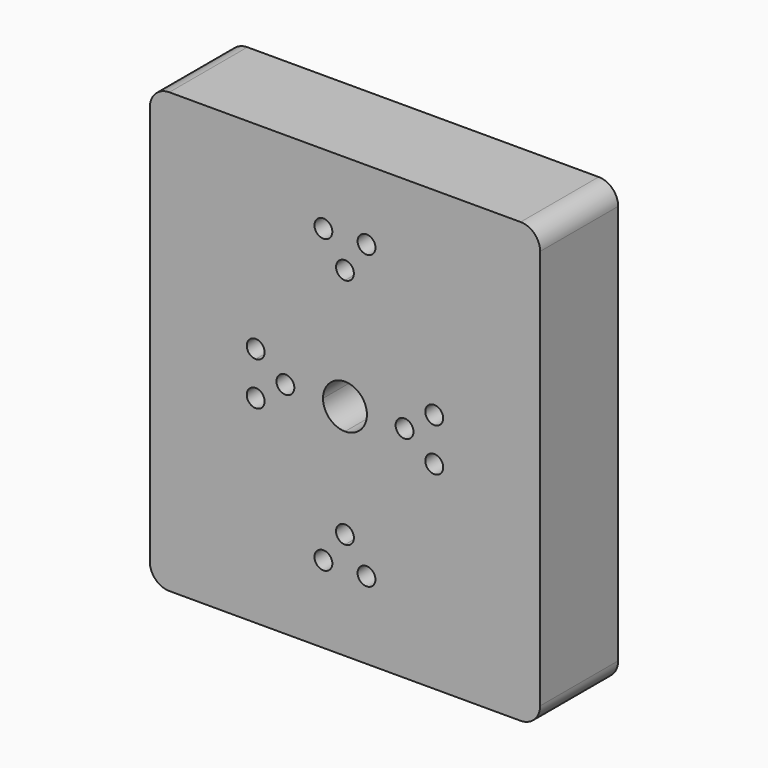
from build123d import *

# Parameters (mm, degrees)
F0_W     = 101.6
F0_H     = 114.3
F1_DEPTH = 25.4
F2_R     = 2.3241
F3_DEPTH = 25.401
F4_R     = 5.08


with BuildPart() as f1:
    # F0 (on Front) → F1 (new body)
    with BuildSketch(Plane.XZ):
        Rectangle(F0_W, F0_H)
    extrude(amount=F1_DEPTH)

    # F2 (on face) → F3 (cut, through all)
    with BuildSketch(Plane.XZ.offset(25.4)):
        with BuildLine():
            ThreePointArc((0, -5.715), (4.041115, -4.041115), (5.715, 0))
            ThreePointArc((5.715, 0), (4.041115, 4.041115), (0, 5.715))
            ThreePointArc((0, 5.715), (-4.041115, 4.041115), (-5.715, 0))
            ThreePointArc((-5.715, 0), (-4.041115, -4.041115), (0, -5.715))
        make_face()
        with BuildLine():
            ThreePointArc((2.3241, -29.3243), (1.643387, -27.680913), (0, -27.0002))
            Line((0, -27.0002), (0, -31.6484))
            ThreePointArc((0, -31.6484), (1.643387, -30.967687), (2.3241, -29.3243))
        make_face()
        with BuildLine():
            Line((0, -31.6484), (0, -27.0002))
            ThreePointArc((0, -27.0002), (-2.3241, -29.3243), (0, -31.6484))
        make_face()
        with BuildLine():
            ThreePointArc((-20.9169, -5.6261), (-21.597613, -3.982713), (-23.241, -3.302))
            ThreePointArc((-23.241, -3.302), (-24.884387, -7.269487), (-20.9169, -5.6261))
        make_face()
        with BuildLine():
            ThreePointArc((-20.9169, 5.6261), (-24.884387, 7.269487), (-23.241, 3.302))
            ThreePointArc((-23.241, 3.302), (-21.597613, 3.982713), (-20.9169, 5.6261))
        make_face()
        with BuildLine():
            ThreePointArc((-17.8308, 0), (-15.5067, -2.3241), (-13.1826, 0))
            ThreePointArc((-13.1826, 0), (-15.5067, 2.3241), (-17.8308, 0))
        make_face()
        with Locations((-5.6134, 38.9636)):
            Circle(F2_R)
        with BuildLine():
            ThreePointArc((7.9375, 38.9636), (5.6134, 41.2877), (3.2893, 38.9636))
            ThreePointArc((3.2893, 38.9636), (5.6134, 36.6395), (7.9375, 38.9636))
        make_face()
        with BuildLine():
            ThreePointArc((0, 33.5534), (-2.3241, 31.2293), (0, 28.9052))
            Line((0, 28.9052), (0, 33.5534))
        make_face()
        with BuildLine():
            Line((0, 33.5534), (0, 28.9052))
            ThreePointArc((0, 28.9052), (1.643387, 29.585913), (2.3241, 31.2293))
            ThreePointArc((2.3241, 31.2293), (1.643387, 32.872687), (0, 33.5534))
        make_face()
        with Locations((-5.6134, -37.0586)):
            Circle(F2_R)
        with Locations((5.6134, -37.0586)):
            Circle(F2_R)
        with Locations((15.5067, 0)):
            Circle(F2_R)
        with Locations((23.241, -5.6261)):
            Circle(F2_R)
        with Locations((23.241, 5.6261)):
            Circle(F2_R)
    extrude(amount=-F3_DEPTH, mode=Mode.SUBTRACT)

    # F4
    f4_edges = [f1.edges().sort_by_distance(p)[0] for p in [
        (-50.8, -12.7, -57.15),
        (50.8, -12.7, -57.15),
        (-50.8, -12.7, 57.15),
        (50.8, -12.7, 57.15),
    ]]
    fillet(f4_edges, radius=F4_R)


solid = f1.part
